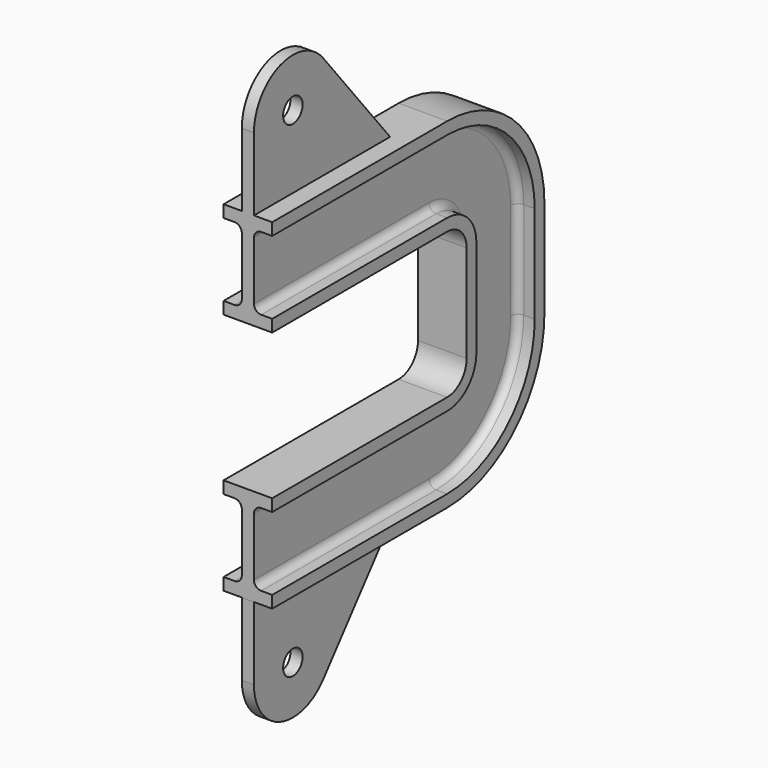
from build123d import *

# Parameters (mm, degrees)
F3_R     = 5
F4_DEPTH = 2.5


with BuildPart() as f2:
    # F2: sweep along a path in F1
    with BuildLine(Plane.YZ) as f2_path:
        Line((0, -20), (90, -20))
        ThreePointArc((90, -20), (97.0710678119, -22.9289321881), (100, -30))
        Line((100, -30), (100, -70))
        ThreePointArc((100, -70), (97.0710678119, -77.0710678119), (90, -80))
        Line((90, -80), (0, -80))
    # F0 (on Front) → F2 (sweep)
    with BuildSketch(Plane.XZ):
        with BuildLine():
            Line((10, 20), (0, 20))
            Line((0, 20), (-10, 20))
            Line((-10, 20), (-10, 15))
            Line((-10, 15), (-5.5, 15))
            ThreePointArc((-5.5, 15), (-3.3786796564, 14.1213203436), (-2.5, 12))
            Line((-2.5, 12), (-2.5, 0))
            Line((-2.5, 0), (-2.5, -12))
            ThreePointArc((-2.5, -12), (-3.3786796564, -14.1213203436), (-5.5, -15))
            Line((-5.5, -15), (-10, -15))
            Line((-10, -15), (-10, -20))
            Line((-10, -20), (0, -20))
            Line((0, -20), (10, -20))
            Line((10, -20), (10, -15))
            Line((10, -15), (5.5, -15))
            ThreePointArc((5.5, -15), (3.3786796564, -14.1213203436), (2.5, -12))
            Line((2.5, -12), (2.5, 0))
            Line((2.5, 0), (2.5, 12))
            ThreePointArc((2.5, 12), (3.3786796564, 14.1213203436), (5.5, 15))
            Line((5.5, 15), (10, 15))
            Line((10, 15), (10, 20))
        make_face()
    sweep(path=f2_path.line)

    # F3 (on Right) → F4 (join, symmetric)
    with BuildSketch(Plane.YZ):
        with BuildLine():
            Line((70, -120), (0, -120))
            Line((0, -120), (0, -150))
            ThreePointArc((0, -150), (13.3277028936, -168.8541892248), (35.5480451324, -162.5800752207))
            Line((35.5480451324, -162.5800752207), (70, -120))
        make_face()
        with Locations((20, -150)):
            Circle(F3_R, mode=Mode.SUBTRACT)
        with BuildLine():
            Line((0, 50), (0, 20))
            Line((0, 20), (70, 20))
            Line((70, 20), (35.5480451324, 62.5800752207))
            ThreePointArc((35.5480451324, 62.5800752207), (13.3277028936, 68.8541892248), (0, 50))
        make_face()
        with Locations((20, 50)):
            Circle(F3_R, mode=Mode.SUBTRACT)
    extrude(amount=F4_DEPTH, both=True)


solid = f2.part
